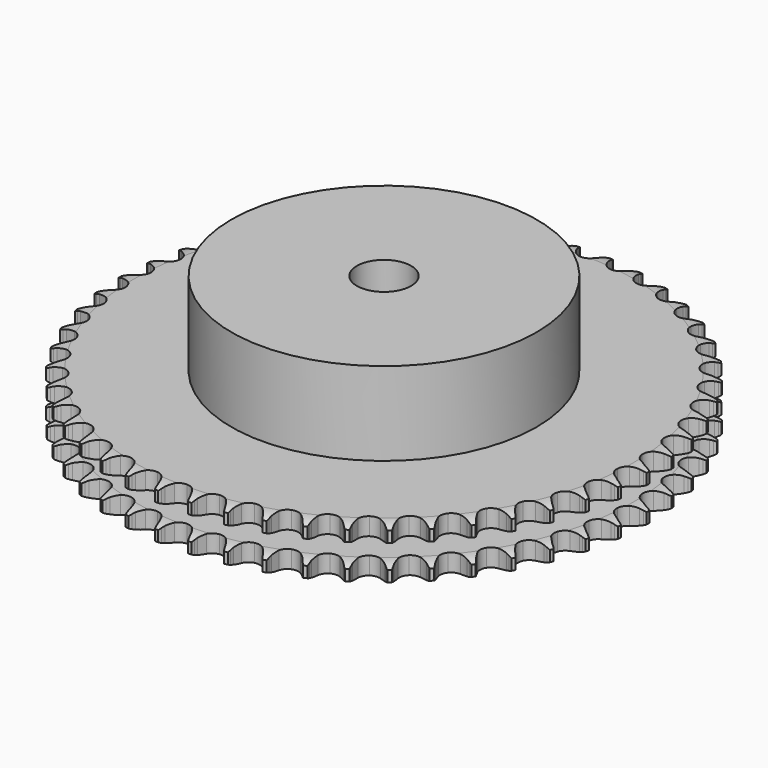
from build123d import *

# Parameters (mm, degrees)
PAD_DEPTH         = 15.4
SKETCH001_R       = 45
PAD001_DEPTH      = 40
SKETCH002_R       = 8
POCKET_DEPTH      = 0.001
POCKET_DEPTH_BACK = 40.001


with BuildPart() as part:
    # Sprocket → Pad (new body)
    with BuildSketch(Plane.XY):
        with BuildLine():
            ThreePointArc((-4.942228, 78.554462), (-4.426125, 77.806882), (-4.050562, 76.979723))
            Line((-4.050562, 76.979723), (-3.741701, 76.098741))
            ThreePointArc((-3.741701, 76.098741), (-3.253306, 74.977651), (-2.605655, 73.940386))
            ThreePointArc((-2.605655, 73.940386), (-1.4609, 72.967845), (0, 72.618462))
            ThreePointArc((0, 72.618462), (1.4609, 72.967845), (2.605655, 73.940386))
            ThreePointArc((2.605655, 73.940386), (3.253306, 74.977651), (3.741701, 76.098741))
            Line((3.741701, 76.098741), (4.050562, 76.979723))
            ThreePointArc((4.050562, 76.979723), (4.426125, 77.806882), (4.942228, 78.554462))
            ThreePointArc((4.942228, 78.554462), (5.360565, 77.748092), (5.629496, 76.880385))
            Line((5.629496, 76.880385), (5.825505, 75.967639))
            ThreePointArc((5.825505, 75.967639), (6.169538, 74.794178), (6.682079, 73.68392))
            ThreePointArc((6.682079, 73.68392), (7.695915, 72.575572), (9.101507, 72.045844))
            ThreePointArc((9.101507, 72.045844), (10.594677, 72.209373), (11.852296, 73.030769))
            Line((11.852296, 73.030769), (13.249898, 75.02972))
            ThreePointArc((13.249898, 75.02972), (13.446578, 75.453242), (13.66674, 75.865045))
            ThreePointArc((13.66674, 75.865045), (14.143012, 76.638611), (14.748742, 77.315611))
            ThreePointArc((14.748742, 77.315611), (15.062715, 76.463168), (15.220773, 75.568598))
            Line((15.220773, 75.568598), (15.300839, 74.638482))
            ThreePointArc((15.300839, 74.638482), (15.495086, 73.431155), (15.864433, 72.265413))
            ThreePointArc((15.864433, 72.265413), (16.731362, 71.038738), (18.059477, 70.33702))
            ThreePointArc((18.059477, 70.33702), (19.561369, 70.312115), (20.91202, 70.969413))
            Line((20.91202, 70.969413), (22.549136, 72.777436))
            ThreePointArc((22.549136, 72.777436), (22.797346, 73.172967), (23.067385, 73.55393))
            ThreePointArc((23.067385, 73.55393), (23.636855, 74.261703), (24.322659, 74.857447))
            ThreePointArc((24.322659, 74.857447), (24.527317, 73.972374), (24.572009, 73.065048))
            Line((24.572009, 73.065048), (24.534869, 72.132232))
            ThreePointArc((24.534869, 72.132232), (24.576267, 70.910079), (24.796595, 69.707238))
            ThreePointArc((24.796595, 69.707238), (25.502945, 68.38158), (26.732639, 67.518939))
            ThreePointArc((26.732639, 67.518939), (28.219566, 67.305994), (29.641948, 67.788827))
            Line((29.641948, 67.788827), (31.492761, 69.377408))
            ThreePointArc((31.492761, 69.377408), (31.788587, 69.738711), (32.104243, 70.082825))
            ThreePointArc((32.104243, 70.082825), (32.75793, 70.713644), (33.512993, 71.218736))
            ThreePointArc((33.512993, 71.218736), (33.605108, 70.314992), (33.53573, 69.409219))
            Line((33.53573, 69.409219), (33.381971, 68.488413))
            ThreePointArc((33.381971, 68.488413), (33.269865, 67.270709), (33.3377, 66.049738))
            ThreePointArc((33.3377, 66.049738), (33.872331, 64.646005), (34.984211, 63.636044))
            ThreePointArc((34.984211, 63.636044), (36.432724, 63.238416), (37.904405, 63.539171))
            Line((37.904405, 63.539171), (39.939726, 64.883257))
            ThreePointArc((39.939726, 64.883257), (40.278503, 65.204634), (40.634799, 65.506473))
            ThreePointArc((40.634799, 65.506473), (41.362394, 66.050388), (42.174808, 66.456863))
            ThreePointArc((42.174808, 66.456863), (42.152927, 65.5487), (41.970573, 64.658765))
            Line((41.970573, 64.658765), (41.702618, 63.764492))
            ThreePointArc((41.702618, 63.764492), (41.438778, 62.57044), (41.35305, 61.350595))
            ThreePointArc((41.35305, 61.350595), (41.70753, 59.890923), (42.684061, 58.74957))
            ThreePointArc((42.684061, 58.74957), (44.071317, 58.173531), (45.569088, 58.287464))
            Line((45.569088, 58.287464), (47.756817, 59.365858))
            ThreePointArc((47.756817, 59.365858), (48.133202, 59.642241), (48.52452, 59.897044))
            ThreePointArc((48.52452, 59.897044), (49.314548, 60.345479), (50.1715, 60.646926))
            ThreePointArc((50.1715, 60.646926), (50.03597, 59.748667), (49.743514, 58.888604))
            Line((49.743514, 58.888604), (49.36559, 58.034966))
            ThreePointArc((49.36559, 58.034966), (48.954176, 56.883397), (48.716237, 55.683915))
            ThreePointArc((48.716237, 55.683915), (48.884977, 54.191325), (49.710758, 52.936581))
            ThreePointArc((49.710758, 52.936581), (51.014878, 52.191215), (52.515118, 52.116529))
            Line((52.515118, 52.116529), (54.820756, 52.912224))
            ThreePointArc((54.820756, 52.912224), (55.228813, 53.139255), (55.648979, 53.343003))
            ThreePointArc((55.648979, 53.343003), (56.488982, 53.688885), (57.376959, 53.88055))
            ThreePointArc((57.376959, 53.88055), (57.129915, 53.006361), (56.731971, 52.189734))
            Line((56.731971, 52.189734), (56.250038, 51.390193))
            ThreePointArc((56.250038, 51.390193), (55.697538, 50.299269), (55.31114, 49.139068))
            ThreePointArc((55.31114, 49.139068), (55.291478, 47.637098), (55.953487, 46.28875))
            ThreePointArc((55.953487, 46.28875), (57.153904, 45.385812), (58.632954, 45.123685))
            Line((58.632954, 45.123685), (61.020138, 45.624133))
            ThreePointArc((61.020138, 45.624133), (61.453432, 45.79823), (61.895822, 45.947711))
            ThreePointArc((61.895822, 45.947711), (62.772551, 46.185585), (63.677548, 46.264446))
            ThreePointArc((63.677548, 46.264446), (63.322887, 45.428113), (62.825731, 44.667801))
            Line((62.825731, 44.667801), (62.247389, 43.934967))
            ThreePointArc((62.247389, 43.934967), (61.562516, 42.921892), (61.033754, 41.819267))
            ThreePointArc((61.033754, 41.819267), (60.826, 40.331606), (61.313796, 38.910918))
            ThreePointArc((61.313796, 38.910918), (62.391579, 37.864648), (63.826113, 37.419213))
            Line((63.826113, 37.419213), (66.257196, 37.616522))
            ThreePointArc((66.257196, 37.616522), (66.708893, 37.73494), (67.16653, 37.827796))
            ThreePointArc((67.16653, 37.827796), (68.066159, 37.953911), (68.973904, 37.918725))
            ThreePointArc((68.973904, 37.918725), (68.517219, 37.133436), (67.928691, 36.44143))
            Line((67.928691, 36.44143), (67.263061, 35.78686))
            ThreePointArc((67.263061, 35.78686), (66.456617, 34.867611), (65.793828, 33.839952))
            ThreePointArc((65.793828, 33.839952), (65.401259, 32.39006), (65.707149, 30.919437))
            ThreePointArc((65.707149, 30.919437), (66.645302, 29.746335), (68.012696, 29.124619))
            Line((68.012696, 29.124619), (70.449338, 29.015676))
            ThreePointArc((70.449338, 29.015676), (70.912316, 29.076547), (71.377982, 29.111314))
            ThreePointArc((71.377982, 29.111314), (72.286324, 29.123682), (73.1825, 28.975002))
            ThreePointArc((73.1825, 28.975002), (72.630994, 28.253144), (71.960375, 27.640356))
            Line((71.960375, 27.640356), (71.217954, 27.074373))
            ThreePointArc((71.217954, 27.074373), (70.302657, 26.263447), (69.516295, 25.326961))
            ThreePointArc((69.516295, 25.326961), (68.945102, 23.937703), (69.064262, 22.440339))
            ThreePointArc((69.064262, 22.440339), (69.847988, 21.158905), (71.126678, 20.370711))
            Line((71.126678, 20.370711), (73.530453, 19.957235))
            ThreePointArc((73.530453, 19.957235), (73.997409, 19.9596), (74.46376, 19.935729))
            ThreePointArc((74.46376, 19.935729), (75.36649, 19.834154), (76.236965, 19.574326))
            ThreePointArc((76.236965, 19.574326), (75.599335, 18.927282), (74.857201, 18.403377))
            Line((74.857201, 18.403377), (74.049698, 17.934907))
            ThreePointArc((74.049698, 17.934907), (73.039982, 17.245092), (72.142448, 16.414548))
            ThreePointArc((72.142448, 16.414548), (71.401639, 15.107835), (71.33219, 13.607343))
            ThreePointArc((71.33219, 13.607343), (71.94913, 12.237787), (73.11895, 11.295545))
            Line((73.11895, 11.295545), (75.451948, 10.584057))
            ThreePointArc((75.451948, 10.584057), (75.915518, 10.527878), (76.3752, 10.445746))
            ThreePointArc((76.3752, 10.445746), (77.258081, 10.23183), (78.089128, 9.864951))
            ThreePointArc((78.089128, 9.864951), (77.375429, 9.302925), (76.573485, 8.876166))
            Line((76.573485, 8.876166), (75.713634, 8.512597))
            ThreePointArc((75.713634, 8.512597), (74.625423, 7.954772), (73.630872, 7.243268))
            ThreePointArc((73.630872, 7.243268), (72.732129, 6.039707), (72.475166, 4.559751))
            ThreePointArc((72.475166, 4.559751), (72.915591, 3.123671), (73.958092, 2.042242))
            Line((73.958092, 2.042242), (76.183521, 1.043962))
            ThreePointArc((76.183521, 1.043962), (76.636395, 0.930126), (77.082158, 0.791028))
            ThreePointArc((77.082158, 0.791028), (77.931266, 0.468144), (78.709778, 0))
            ThreePointArc((78.709778, 0), (77.931266, -0.468144), (77.082158, -0.791028))
            Line((77.082158, -0.791028), (76.183521, -1.043962))
            ThreePointArc((76.183521, -1.043962), (75.033977, -1.460999), (73.958092, -2.042242))
            ThreePointArc((73.958092, -2.042242), (72.915591, -3.123671), (72.475166, -4.559751))
            ThreePointArc((72.475166, -4.559751), (72.732129, -6.039707), (73.630872, -7.243268))
            Line((73.630872, -7.243268), (75.713634, -8.512597))
            ThreePointArc((75.713634, -8.512597), (76.14867, -8.682296), (76.573485, -8.876166))
            ThreePointArc((76.573485, -8.876166), (77.375429, -9.302925), (78.089128, -9.864951))
            ThreePointArc((78.089128, -9.864951), (77.258081, -10.23183), (76.3752, -10.445746))
            Line((76.3752, -10.445746), (75.451948, -10.584057))
            ThreePointArc((75.451948, -10.584057), (74.2592, -10.853729), (73.11895, -11.295545))
            ThreePointArc((73.11895, -11.295545), (71.94913, -12.237787), (71.33219, -13.607343))
            ThreePointArc((71.33219, -13.607343), (71.401639, -15.107835), (72.142448, -16.414548))
            Line((72.142448, -16.414548), (74.049698, -17.934907))
            ThreePointArc((74.049698, -17.934907), (74.460034, -18.157792), (74.857201, -18.403377))
            ThreePointArc((74.857201, -18.403377), (75.599335, -18.927282), (76.236965, -19.574326))
            ThreePointArc((76.236965, -19.574326), (75.36649, -19.834154), (74.46376, -19.935729))
            Line((74.46376, -19.935729), (73.530453, -19.957235))
            ThreePointArc((73.530453, -19.957235), (72.313311, -20.07529), (71.126678, -20.370711))
            ThreePointArc((71.126678, -20.370711), (69.847988, -21.158905), (69.064262, -22.440339))
            ThreePointArc((69.064262, -22.440339), (68.945102, -23.937703), (69.516295, -25.326961))
            Line((69.516295, -25.326961), (71.217954, -27.074373))
            ThreePointArc((71.217954, -27.074373), (71.59712, -27.34693), (71.960375, -27.640356))
            ThreePointArc((71.960375, -27.640356), (72.630994, -28.253144), (73.1825, -28.975002))
            ThreePointArc((73.1825, -28.975002), (72.286324, -29.123682), (71.377982, -29.111314))
            Line((71.377982, -29.111314), (70.449338, -29.015676))
            ThreePointArc((70.449338, -29.015676), (69.226998, -28.980252), (68.012696, -29.124619))
            ThreePointArc((68.012696, -29.124619), (66.645302, -29.746335), (65.707149, -30.919437))
            ThreePointArc((65.707149, -30.919437), (65.401259, -32.39006), (65.793828, -33.839952))
            Line((65.793828, -33.839952), (67.263061, -35.78686))
            ThreePointArc((67.263061, -35.78686), (67.605076, -36.104789), (67.928691, -36.44143))
            ThreePointArc((67.928691, -36.44143), (68.517219, -37.133436), (68.973904, -37.918725))
            ThreePointArc((68.973904, -37.918725), (68.066159, -37.953911), (67.16653, -37.827796))
            Line((67.16653, -37.827796), (66.257196, -37.616522))
            ThreePointArc((66.257196, -37.616522), (65.048934, -37.428177), (63.826113, -37.419213))
            ThreePointArc((63.826113, -37.419213), (62.391579, -37.864648), (61.313796, -38.910918))
            ThreePointArc((61.313796, -38.910918), (60.826, -40.331606), (61.033754, -41.819267))
            Line((61.033754, -41.819267), (62.247389, -43.934967))
            ThreePointArc((62.247389, -43.934967), (62.54686, -44.293255), (62.825731, -44.667801))
            ThreePointArc((62.825731, -44.667801), (63.322887, -45.428113), (63.677548, -46.264446))
            ThreePointArc((63.677548, -46.264446), (62.772551, -46.185585), (61.895822, -45.947711))
            Line((61.895822, -45.947711), (61.020138, -45.624133))
            ThreePointArc((61.020138, -45.624133), (59.845009, -45.285838), (58.632954, -45.123685))
            ThreePointArc((58.632954, -45.123685), (57.153904, -45.385812), (55.953487, -46.28875))
            ThreePointArc((55.953487, -46.28875), (55.291478, -47.637098), (55.31114, -49.139068))
            Line((55.31114, -49.139068), (56.250038, -51.390193))
            ThreePointArc((56.250038, -51.390193), (56.502242, -51.78319), (56.731971, -52.189734))
            ThreePointArc((56.731971, -52.189734), (57.129915, -53.006361), (57.376959, -53.88055))
            ThreePointArc((57.376959, -53.88055), (56.488982, -53.688885), (55.648979, -53.343003))
            Line((55.648979, -53.343003), (54.820756, -52.912224))
            ThreePointArc((54.820756, -52.912224), (53.697293, -52.429314), (52.515118, -52.116529))
            ThreePointArc((52.515118, -52.116529), (51.014878, -52.191215), (49.710758, -52.936581))
            ThreePointArc((49.710758, -52.936581), (48.884977, -54.191325), (48.716237, -55.683915))
            Line((48.716237, -55.683915), (49.36559, -58.034966))
            ThreePointArc((49.36559, -58.034966), (49.566551, -58.456473), (49.743514, -58.888604))
            ThreePointArc((49.743514, -58.888604), (50.03597, -59.748667), (50.1715, -60.646926))
            ThreePointArc((50.1715, -60.646926), (49.314548, -60.345479), (48.52452, -59.897044))
            Line((48.52452, -59.897044), (47.756817, -59.365858))
            ThreePointArc((47.756817, -59.365858), (46.702738, -58.745949), (45.569088, -58.287464))
            ThreePointArc((45.569088, -58.287464), (44.071317, -58.173531), (42.684061, -58.74957))
            ThreePointArc((42.684061, -58.74957), (41.70753, -59.890923), (41.35305, -61.350595))
            Line((41.35305, -61.350595), (41.702618, -63.764492))
            ThreePointArc((41.702618, -63.764492), (41.849165, -64.207862), (41.970573, -64.658765))
            ThreePointArc((41.970573, -64.658765), (42.152927, -65.5487), (42.174808, -66.456863))
            ThreePointArc((42.174808, -66.456863), (41.362394, -66.050388), (40.634799, -65.506473))
            Line((40.634799, -65.506473), (39.939726, -64.883257))
            ThreePointArc((39.939726, -64.883257), (38.971653, -64.136124), (37.904405, -63.539171))
            ThreePointArc((37.904405, -63.539171), (36.432724, -63.238416), (34.984211, -63.636044))
            ThreePointArc((34.984211, -63.636044), (33.872331, -64.646005), (33.3377, -66.049738))
            Line((33.3377, -66.049738), (33.381971, -68.488413))
            ThreePointArc((33.381971, -68.488413), (33.471793, -68.946655), (33.53573, -69.409219))
            ThreePointArc((33.53573, -69.409219), (33.605108, -70.314992), (33.512993, -71.218736))
            ThreePointArc((33.512993, -71.218736), (32.75793, -70.713644), (32.104243, -70.082825))
            Line((32.104243, -70.082825), (31.492761, -69.377408))
            ThreePointArc((31.492761, -69.377408), (30.625962, -68.514835), (29.641948, -67.788827))
            ThreePointArc((29.641948, -67.788827), (28.219566, -67.305994), (26.732639, -67.518939))
            ThreePointArc((26.732639, -67.518939), (25.502945, -68.38158), (24.796595, -69.707238))
            Line((24.796595, -69.707238), (24.534869, -72.132232))
            ThreePointArc((24.534869, -72.132232), (24.56655, -72.598118), (24.572009, -73.065048))
            ThreePointArc((24.572009, -73.065048), (24.527317, -73.972374), (24.322659, -74.857447))
            ThreePointArc((24.322659, -74.857447), (23.636855, -74.261703), (23.067385, -73.55393))
            Line((23.067385, -73.55393), (22.549136, -72.777436))
            ThreePointArc((22.549136, -72.777436), (21.797282, -71.813026), (20.91202, -70.969413))
            ThreePointArc((20.91202, -70.969413), (19.561369, -70.312115), (18.059477, -70.33702))
            ThreePointArc((18.059477, -70.33702), (16.731362, -71.038738), (15.864433, -72.265413))
            Line((15.864433, -72.265413), (15.300839, -74.638482))
            ThreePointArc((15.300839, -74.638482), (15.273879, -75.104665), (15.220773, -75.568598))
            ThreePointArc((15.220773, -75.568598), (15.062715, -76.463168), (14.748742, -77.315611))
            ThreePointArc((14.748742, -77.315611), (14.143012, -76.638611), (13.66674, -75.865045))
            Line((13.66674, -75.865045), (13.249898, -75.02972))
            ThreePointArc((13.249898, -75.02972), (12.624845, -73.978683), (11.852296, -73.030769))
            ThreePointArc((11.852296, -73.030769), (10.594677, -72.209373), (9.101507, -72.045844))
            ThreePointArc((9.101507, -72.045844), (7.695915, -72.575572), (6.682079, -73.68392))
            Line((6.682079, -73.68392), (5.825505, -75.967639))
            ThreePointArc((5.825505, -75.967639), (5.740329, -76.426767), (5.629496, -76.880385))
            ThreePointArc((5.629496, -76.880385), (5.360565, -77.748092), (4.942228, -78.554462))
            ThreePointArc((4.942228, -78.554462), (4.426125, -77.806882), (4.050562, -76.979723))
            Line((4.050562, -76.979723), (3.741701, -76.098741))
            ThreePointArc((3.741701, -76.098741), (3.253306, -74.977651), (2.605655, -73.940386))
            ThreePointArc((2.605655, -73.940386), (1.4609, -72.967845), (0, -72.618462))
            ThreePointArc((0, -72.618462), (-1.4609, -72.967845), (-2.605655, -73.940386))
            Line((-2.605655, -73.940386), (-3.741701, -76.098741))
            ThreePointArc((-3.741701, -76.098741), (-3.883749, -76.543573), (-4.050562, -76.979723))
            ThreePointArc((-4.050562, -76.979723), (-4.426125, -77.806882), (-4.942228, -78.554462))
            ThreePointArc((-4.942228, -78.554462), (-5.360565, -77.748092), (-5.629496, -76.880385))
            Line((-5.629496, -76.880385), (-5.825505, -75.967639))
            ThreePointArc((-5.825505, -75.967639), (-6.169538, -74.794178), (-6.682079, -73.68392))
            ThreePointArc((-6.682079, -73.68392), (-7.695915, -72.575572), (-9.101507, -72.045844))
            ThreePointArc((-9.101507, -72.045844), (-10.594677, -72.209373), (-11.852296, -73.030769))
            Line((-11.852296, -73.030769), (-13.249898, -75.02972))
            ThreePointArc((-13.249898, -75.02972), (-13.446578, -75.453242), (-13.66674, -75.865045))
            ThreePointArc((-13.66674, -75.865045), (-14.143012, -76.638611), (-14.748742, -77.315611))
            ThreePointArc((-14.748742, -77.315611), (-15.062715, -76.463168), (-15.220773, -75.568598))
            Line((-15.220773, -75.568598), (-15.300839, -74.638482))
            ThreePointArc((-15.300839, -74.638482), (-15.495086, -73.431155), (-15.864433, -72.265413))
            ThreePointArc((-15.864433, -72.265413), (-16.731362, -71.038738), (-18.059477, -70.33702))
            ThreePointArc((-18.059477, -70.33702), (-19.561369, -70.312115), (-20.91202, -70.969413))
            Line((-20.91202, -70.969413), (-22.549136, -72.777436))
            ThreePointArc((-22.549136, -72.777436), (-22.797346, -73.172967), (-23.067385, -73.55393))
            ThreePointArc((-23.067385, -73.55393), (-23.636855, -74.261703), (-24.322659, -74.857447))
            ThreePointArc((-24.322659, -74.857447), (-24.527317, -73.972374), (-24.572009, -73.065048))
            Line((-24.572009, -73.065048), (-24.534869, -72.132232))
            ThreePointArc((-24.534869, -72.132232), (-24.576267, -70.910079), (-24.796595, -69.707238))
            ThreePointArc((-24.796595, -69.707238), (-25.502945, -68.38158), (-26.732639, -67.518939))
            ThreePointArc((-26.732639, -67.518939), (-28.219566, -67.305994), (-29.641948, -67.788827))
            Line((-29.641948, -67.788827), (-31.492761, -69.377408))
            ThreePointArc((-31.492761, -69.377408), (-31.788587, -69.738711), (-32.104243, -70.082825))
            ThreePointArc((-32.104243, -70.082825), (-32.75793, -70.713644), (-33.512993, -71.218736))
            ThreePointArc((-33.512993, -71.218736), (-33.605108, -70.314992), (-33.53573, -69.409219))
            Line((-33.53573, -69.409219), (-33.381971, -68.488413))
            ThreePointArc((-33.381971, -68.488413), (-33.269865, -67.270709), (-33.3377, -66.049738))
            ThreePointArc((-33.3377, -66.049738), (-33.872331, -64.646005), (-34.984211, -63.636044))
            ThreePointArc((-34.984211, -63.636044), (-36.432724, -63.238416), (-37.904405, -63.539171))
            Line((-37.904405, -63.539171), (-39.939726, -64.883257))
            ThreePointArc((-39.939726, -64.883257), (-40.278503, -65.204634), (-40.634799, -65.506473))
            ThreePointArc((-40.634799, -65.506473), (-41.362394, -66.050388), (-42.174808, -66.456863))
            ThreePointArc((-42.174808, -66.456863), (-42.152927, -65.5487), (-41.970573, -64.658765))
            Line((-41.970573, -64.658765), (-41.702618, -63.764492))
            ThreePointArc((-41.702618, -63.764492), (-41.438778, -62.57044), (-41.35305, -61.350595))
            ThreePointArc((-41.35305, -61.350595), (-41.70753, -59.890923), (-42.684061, -58.74957))
            ThreePointArc((-42.684061, -58.74957), (-44.071317, -58.173531), (-45.569088, -58.287464))
            Line((-45.569088, -58.287464), (-47.756817, -59.365858))
            ThreePointArc((-47.756817, -59.365858), (-48.133202, -59.642241), (-48.52452, -59.897044))
            ThreePointArc((-48.52452, -59.897044), (-49.314548, -60.345479), (-50.1715, -60.646926))
            ThreePointArc((-50.1715, -60.646926), (-50.03597, -59.748667), (-49.743514, -58.888604))
            Line((-49.743514, -58.888604), (-49.36559, -58.034966))
            ThreePointArc((-49.36559, -58.034966), (-48.954176, -56.883397), (-48.716237, -55.683915))
            ThreePointArc((-48.716237, -55.683915), (-48.884977, -54.191325), (-49.710758, -52.936581))
            ThreePointArc((-49.710758, -52.936581), (-51.014878, -52.191215), (-52.515118, -52.116529))
            Line((-52.515118, -52.116529), (-54.820756, -52.912224))
            ThreePointArc((-54.820756, -52.912224), (-55.228813, -53.139255), (-55.648979, -53.343003))
            ThreePointArc((-55.648979, -53.343003), (-56.488982, -53.688885), (-57.376959, -53.88055))
            ThreePointArc((-57.376959, -53.88055), (-57.129915, -53.006361), (-56.731971, -52.189734))
            Line((-56.731971, -52.189734), (-56.250038, -51.390193))
            ThreePointArc((-56.250038, -51.390193), (-55.697538, -50.299269), (-55.31114, -49.139068))
            ThreePointArc((-55.31114, -49.139068), (-55.291478, -47.637098), (-55.953487, -46.28875))
            ThreePointArc((-55.953487, -46.28875), (-57.153904, -45.385812), (-58.632954, -45.123685))
            Line((-58.632954, -45.123685), (-61.020138, -45.624133))
            ThreePointArc((-61.020138, -45.624133), (-61.453432, -45.79823), (-61.895822, -45.947711))
            ThreePointArc((-61.895822, -45.947711), (-62.772551, -46.185585), (-63.677548, -46.264446))
            ThreePointArc((-63.677548, -46.264446), (-63.322887, -45.428113), (-62.825731, -44.667801))
            Line((-62.825731, -44.667801), (-62.247389, -43.934967))
            ThreePointArc((-62.247389, -43.934967), (-61.562516, -42.921892), (-61.033754, -41.819267))
            ThreePointArc((-61.033754, -41.819267), (-60.826, -40.331606), (-61.313796, -38.910918))
            ThreePointArc((-61.313796, -38.910918), (-62.391579, -37.864648), (-63.826113, -37.419213))
            Line((-63.826113, -37.419213), (-66.257196, -37.616522))
            ThreePointArc((-66.257196, -37.616522), (-66.708893, -37.73494), (-67.16653, -37.827796))
            ThreePointArc((-67.16653, -37.827796), (-68.066159, -37.953911), (-68.973904, -37.918725))
            ThreePointArc((-68.973904, -37.918725), (-68.517219, -37.133436), (-67.928691, -36.44143))
            Line((-67.928691, -36.44143), (-67.263061, -35.78686))
            ThreePointArc((-67.263061, -35.78686), (-66.456617, -34.867611), (-65.793828, -33.839952))
            ThreePointArc((-65.793828, -33.839952), (-65.401259, -32.39006), (-65.707149, -30.919437))
            ThreePointArc((-65.707149, -30.919437), (-66.645302, -29.746335), (-68.012696, -29.124619))
            Line((-68.012696, -29.124619), (-70.449338, -29.015676))
            ThreePointArc((-70.449338, -29.015676), (-70.912316, -29.076547), (-71.377982, -29.111314))
            ThreePointArc((-71.377982, -29.111314), (-72.286324, -29.123682), (-73.1825, -28.975002))
            ThreePointArc((-73.1825, -28.975002), (-72.630994, -28.253144), (-71.960375, -27.640356))
            Line((-71.960375, -27.640356), (-71.217954, -27.074373))
            ThreePointArc((-71.217954, -27.074373), (-70.302657, -26.263447), (-69.516295, -25.326961))
            ThreePointArc((-69.516295, -25.326961), (-68.945102, -23.937703), (-69.064262, -22.440339))
            ThreePointArc((-69.064262, -22.440339), (-69.847988, -21.158905), (-71.126678, -20.370711))
            Line((-71.126678, -20.370711), (-73.530453, -19.957235))
            ThreePointArc((-73.530453, -19.957235), (-73.997409, -19.9596), (-74.46376, -19.935729))
            ThreePointArc((-74.46376, -19.935729), (-75.36649, -19.834154), (-76.236965, -19.574326))
            ThreePointArc((-76.236965, -19.574326), (-75.599335, -18.927282), (-74.857201, -18.403377))
            Line((-74.857201, -18.403377), (-74.049698, -17.934907))
            ThreePointArc((-74.049698, -17.934907), (-73.039982, -17.245092), (-72.142448, -16.414548))
            ThreePointArc((-72.142448, -16.414548), (-71.401639, -15.107835), (-71.33219, -13.607343))
            ThreePointArc((-71.33219, -13.607343), (-71.94913, -12.237787), (-73.11895, -11.295545))
            Line((-73.11895, -11.295545), (-75.451948, -10.584057))
            ThreePointArc((-75.451948, -10.584057), (-75.915518, -10.527878), (-76.3752, -10.445746))
            ThreePointArc((-76.3752, -10.445746), (-77.258081, -10.23183), (-78.089128, -9.864951))
            ThreePointArc((-78.089128, -9.864951), (-77.375429, -9.302925), (-76.573485, -8.876166))
            Line((-76.573485, -8.876166), (-75.713634, -8.512597))
            ThreePointArc((-75.713634, -8.512597), (-74.625423, -7.954772), (-73.630872, -7.243268))
            ThreePointArc((-73.630872, -7.243268), (-72.732129, -6.039707), (-72.475166, -4.559751))
            ThreePointArc((-72.475166, -4.559751), (-72.915591, -3.123671), (-73.958092, -2.042242))
            Line((-73.958092, -2.042242), (-76.183521, -1.043962))
            ThreePointArc((-76.183521, -1.043962), (-76.636395, -0.930126), (-77.082158, -0.791028))
            ThreePointArc((-77.082158, -0.791028), (-77.931266, -0.468144), (-78.709778, 0))
            ThreePointArc((-78.709778, 0), (-77.931266, 0.468144), (-77.082158, 0.791028))
            Line((-77.082158, 0.791028), (-76.183521, 1.043962))
            ThreePointArc((-76.183521, 1.043962), (-75.033977, 1.460999), (-73.958092, 2.042242))
            ThreePointArc((-73.958092, 2.042242), (-72.915591, 3.123671), (-72.475166, 4.559751))
            ThreePointArc((-72.475166, 4.559751), (-72.732129, 6.039707), (-73.630872, 7.243268))
            Line((-73.630872, 7.243268), (-75.713634, 8.512597))
            ThreePointArc((-75.713634, 8.512597), (-76.14867, 8.682296), (-76.573485, 8.876166))
            ThreePointArc((-76.573485, 8.876166), (-77.375429, 9.302925), (-78.089128, 9.864951))
            ThreePointArc((-78.089128, 9.864951), (-77.258081, 10.23183), (-76.3752, 10.445746))
            Line((-76.3752, 10.445746), (-75.451948, 10.584057))
            ThreePointArc((-75.451948, 10.584057), (-74.2592, 10.853729), (-73.11895, 11.295545))
            ThreePointArc((-73.11895, 11.295545), (-71.94913, 12.237787), (-71.33219, 13.607343))
            ThreePointArc((-71.33219, 13.607343), (-71.401639, 15.107835), (-72.142448, 16.414548))
            Line((-72.142448, 16.414548), (-74.049698, 17.934907))
            ThreePointArc((-74.049698, 17.934907), (-74.460034, 18.157792), (-74.857201, 18.403377))
            ThreePointArc((-74.857201, 18.403377), (-75.599335, 18.927282), (-76.236965, 19.574326))
            ThreePointArc((-76.236965, 19.574326), (-75.36649, 19.834154), (-74.46376, 19.935729))
            Line((-74.46376, 19.935729), (-73.530453, 19.957235))
            ThreePointArc((-73.530453, 19.957235), (-72.313311, 20.07529), (-71.126678, 20.370711))
            ThreePointArc((-71.126678, 20.370711), (-69.847988, 21.158905), (-69.064262, 22.440339))
            ThreePointArc((-69.064262, 22.440339), (-68.945102, 23.937703), (-69.516295, 25.326961))
            Line((-69.516295, 25.326961), (-71.217954, 27.074373))
            ThreePointArc((-71.217954, 27.074373), (-71.59712, 27.34693), (-71.960375, 27.640356))
            ThreePointArc((-71.960375, 27.640356), (-72.630994, 28.253144), (-73.1825, 28.975002))
            ThreePointArc((-73.1825, 28.975002), (-72.286324, 29.123682), (-71.377982, 29.111314))
            Line((-71.377982, 29.111314), (-70.449338, 29.015676))
            ThreePointArc((-70.449338, 29.015676), (-69.226998, 28.980252), (-68.012696, 29.124619))
            ThreePointArc((-68.012696, 29.124619), (-66.645302, 29.746335), (-65.707149, 30.919437))
            ThreePointArc((-65.707149, 30.919437), (-65.401259, 32.39006), (-65.793828, 33.839952))
            Line((-65.793828, 33.839952), (-67.263061, 35.78686))
            ThreePointArc((-67.263061, 35.78686), (-67.605076, 36.104789), (-67.928691, 36.44143))
            ThreePointArc((-67.928691, 36.44143), (-68.517219, 37.133436), (-68.973904, 37.918725))
            ThreePointArc((-68.973904, 37.918725), (-68.066159, 37.953911), (-67.16653, 37.827796))
            Line((-67.16653, 37.827796), (-66.257196, 37.616522))
            ThreePointArc((-66.257196, 37.616522), (-65.048934, 37.428177), (-63.826113, 37.419213))
            ThreePointArc((-63.826113, 37.419213), (-62.391579, 37.864648), (-61.313796, 38.910918))
            ThreePointArc((-61.313796, 38.910918), (-60.826, 40.331606), (-61.033754, 41.819267))
            Line((-61.033754, 41.819267), (-62.247389, 43.934967))
            ThreePointArc((-62.247389, 43.934967), (-62.54686, 44.293255), (-62.825731, 44.667801))
            ThreePointArc((-62.825731, 44.667801), (-63.322887, 45.428113), (-63.677548, 46.264446))
            ThreePointArc((-63.677548, 46.264446), (-62.772551, 46.185585), (-61.895822, 45.947711))
            Line((-61.895822, 45.947711), (-61.020138, 45.624133))
            ThreePointArc((-61.020138, 45.624133), (-59.845009, 45.285838), (-58.632954, 45.123685))
            ThreePointArc((-58.632954, 45.123685), (-57.153904, 45.385812), (-55.953487, 46.28875))
            ThreePointArc((-55.953487, 46.28875), (-55.291478, 47.637098), (-55.31114, 49.139068))
            Line((-55.31114, 49.139068), (-56.250038, 51.390193))
            ThreePointArc((-56.250038, 51.390193), (-56.502242, 51.78319), (-56.731971, 52.189734))
            ThreePointArc((-56.731971, 52.189734), (-57.129915, 53.006361), (-57.376959, 53.88055))
            ThreePointArc((-57.376959, 53.88055), (-56.488982, 53.688885), (-55.648979, 53.343003))
            Line((-55.648979, 53.343003), (-54.820756, 52.912224))
            ThreePointArc((-54.820756, 52.912224), (-53.697293, 52.429314), (-52.515118, 52.116529))
            ThreePointArc((-52.515118, 52.116529), (-51.014878, 52.191215), (-49.710758, 52.936581))
            ThreePointArc((-49.710758, 52.936581), (-48.884977, 54.191325), (-48.716237, 55.683915))
            Line((-48.716237, 55.683915), (-49.36559, 58.034966))
            ThreePointArc((-49.36559, 58.034966), (-49.566551, 58.456473), (-49.743514, 58.888604))
            ThreePointArc((-49.743514, 58.888604), (-50.03597, 59.748667), (-50.1715, 60.646926))
            ThreePointArc((-50.1715, 60.646926), (-49.314548, 60.345479), (-48.52452, 59.897044))
            Line((-48.52452, 59.897044), (-47.756817, 59.365858))
            ThreePointArc((-47.756817, 59.365858), (-46.702738, 58.745949), (-45.569088, 58.287464))
            ThreePointArc((-45.569088, 58.287464), (-44.071317, 58.173531), (-42.684061, 58.74957))
            ThreePointArc((-42.684061, 58.74957), (-41.70753, 59.890923), (-41.35305, 61.350595))
            Line((-41.35305, 61.350595), (-41.702618, 63.764492))
            ThreePointArc((-41.702618, 63.764492), (-41.849165, 64.207862), (-41.970573, 64.658765))
            ThreePointArc((-41.970573, 64.658765), (-42.152927, 65.5487), (-42.174808, 66.456863))
            ThreePointArc((-42.174808, 66.456863), (-41.362394, 66.050388), (-40.634799, 65.506473))
            Line((-40.634799, 65.506473), (-39.939726, 64.883257))
            ThreePointArc((-39.939726, 64.883257), (-38.971653, 64.136124), (-37.904405, 63.539171))
            ThreePointArc((-37.904405, 63.539171), (-36.432724, 63.238416), (-34.984211, 63.636044))
            ThreePointArc((-34.984211, 63.636044), (-33.872331, 64.646005), (-33.3377, 66.049738))
            Line((-33.3377, 66.049738), (-33.381971, 68.488413))
            ThreePointArc((-33.381971, 68.488413), (-33.471793, 68.946655), (-33.53573, 69.409219))
            ThreePointArc((-33.53573, 69.409219), (-33.605108, 70.314992), (-33.512993, 71.218736))
            ThreePointArc((-33.512993, 71.218736), (-32.75793, 70.713644), (-32.104243, 70.082825))
            Line((-32.104243, 70.082825), (-31.492761, 69.377408))
            ThreePointArc((-31.492761, 69.377408), (-30.625962, 68.514835), (-29.641948, 67.788827))
            ThreePointArc((-29.641948, 67.788827), (-28.219566, 67.305994), (-26.732639, 67.518939))
            ThreePointArc((-26.732639, 67.518939), (-25.502945, 68.38158), (-24.796595, 69.707238))
            Line((-24.796595, 69.707238), (-24.534869, 72.132232))
            ThreePointArc((-24.534869, 72.132232), (-24.56655, 72.598118), (-24.572009, 73.065048))
            ThreePointArc((-24.572009, 73.065048), (-24.527317, 73.972374), (-24.322659, 74.857447))
            ThreePointArc((-24.322659, 74.857447), (-23.636855, 74.261703), (-23.067385, 73.55393))
            Line((-23.067385, 73.55393), (-22.549136, 72.777436))
            ThreePointArc((-22.549136, 72.777436), (-21.797282, 71.813026), (-20.91202, 70.969413))
            ThreePointArc((-20.91202, 70.969413), (-19.561369, 70.312115), (-18.059477, 70.33702))
            ThreePointArc((-18.059477, 70.33702), (-16.731362, 71.038738), (-15.864433, 72.265413))
            Line((-15.864433, 72.265413), (-15.300839, 74.638482))
            ThreePointArc((-15.300839, 74.638482), (-15.273879, 75.104665), (-15.220773, 75.568598))
            ThreePointArc((-15.220773, 75.568598), (-15.062715, 76.463168), (-14.748742, 77.315611))
            ThreePointArc((-14.748742, 77.315611), (-14.143012, 76.638611), (-13.66674, 75.865045))
            Line((-13.66674, 75.865045), (-13.249898, 75.02972))
            ThreePointArc((-13.249898, 75.02972), (-12.624845, 73.978683), (-11.852296, 73.030769))
            ThreePointArc((-11.852296, 73.030769), (-10.594677, 72.209373), (-9.101507, 72.045844))
            ThreePointArc((-9.101507, 72.045844), (-7.695915, 72.575572), (-6.682079, 73.68392))
            Line((-6.682079, 73.68392), (-5.825505, 75.967639))
            ThreePointArc((-5.825505, 75.967639), (-5.740329, 76.426767), (-5.629496, 76.880385))
            ThreePointArc((-5.629496, 76.880385), (-5.360565, 77.748092), (-4.942228, 78.554462))
        make_face()
    extrude(amount=PAD_DEPTH)

    # Sketch → Groove (revolve, cut)
    with BuildSketch(Plane.XZ):
        with BuildLine():
            ThreePointArc((73.491101, 0), (75.727169, 0.253206), (77.85, 1))
            Line((77.85, 1), (77.85, 4.2))
            ThreePointArc((77.85, 4.2), (75.727169, 4.946794), (73.491101, 5.2))
            Line((45, 5.2), (73.491101, 5.2))
            Line((45, 10.2), (45, 5.2))
            Line((73.491101, 10.2), (45, 10.2))
            ThreePointArc((73.491101, 10.2), (75.727169, 10.453206), (77.85, 11.2))
            Line((77.85, 11.2), (77.85, 14.4))
            ThreePointArc((77.85, 14.4), (75.727169, 15.146794), (73.491101, 15.4))
            Line((73.491101, 15.4), (83.491101, 15.4))
            Line((83.491101, 15.4), (83.491101, 0))
            Line((73.491101, 0), (83.491101, 0))
        make_face()
    revolve(axis=Axis((0, 0, 0), (0, 0, 1)), mode=Mode.SUBTRACT)

    # Sketch001 → Pad001 (join)
    with BuildSketch(Plane.XY):
        Circle(SKETCH001_R)
    extrude(amount=PAD001_DEPTH)

    # Sketch002 → Pocket (cut, two sides)
    with BuildSketch(Plane.XY) as pocket_sk:
        Circle(SKETCH002_R)
    extrude(amount=-POCKET_DEPTH, mode=Mode.SUBTRACT)
    extrude(pocket_sk.sketch, amount=POCKET_DEPTH_BACK, mode=Mode.SUBTRACT)


solid = part.part
